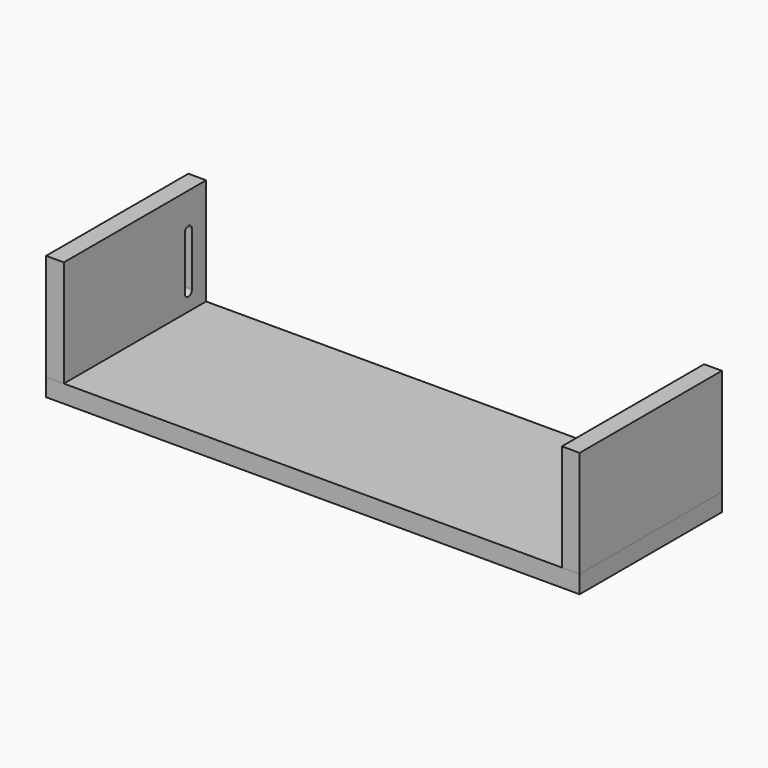
from build123d import *

# Parameters (mm, degrees)
F0_W     = 762
F0_H     = 254
F1_DEPTH = 25.4
F2_W     = 25.4
F2_H     = 254
F3_DEPTH = 152.4
F7_DEPTH = 25.4


with BuildPart() as f1:
    # F0 (on Top) → F1 (new body)
    with BuildSketch(Plane.XY):
        Rectangle(F0_W, F0_H)
    extrude(amount=F1_DEPTH)


with BuildPart() as f3:
    # F2 (on face) → F3 (new body)
    with BuildSketch(Plane.XY.offset(25.4)):
        with Locations((-368.3, 0)):
            Rectangle(F2_W, F2_H)
    extrude(amount=F3_DEPTH)


with BuildPart() as f4_1:
    # F4: instance of F3
    add(f3.part.mirror(Plane.YZ))


with BuildPart() as f3_1:
    add(f3.part)

    # F6 (on face) → F7 (cut)
    with BuildSketch(Plane(origin=(-381, 0, 0), x_dir=(0, -1, 0), z_dir=(-1, 0, 0))):
        with BuildLine():
            ThreePointArc((-88.9, 127), (-95.25, 133.35), (-101.6, 127))
            Line((-101.6, 127), (-101.6, 50.8))
            ThreePointArc((-101.6, 50.8), (-95.25, 44.45), (-88.9, 50.8))
            Line((-88.9, 50.8), (-88.9, 127))
        make_face()
    extrude(amount=-F7_DEPTH, mode=Mode.SUBTRACT)


solid = Compound([f1.part, f4_1.part, f3_1.part])
